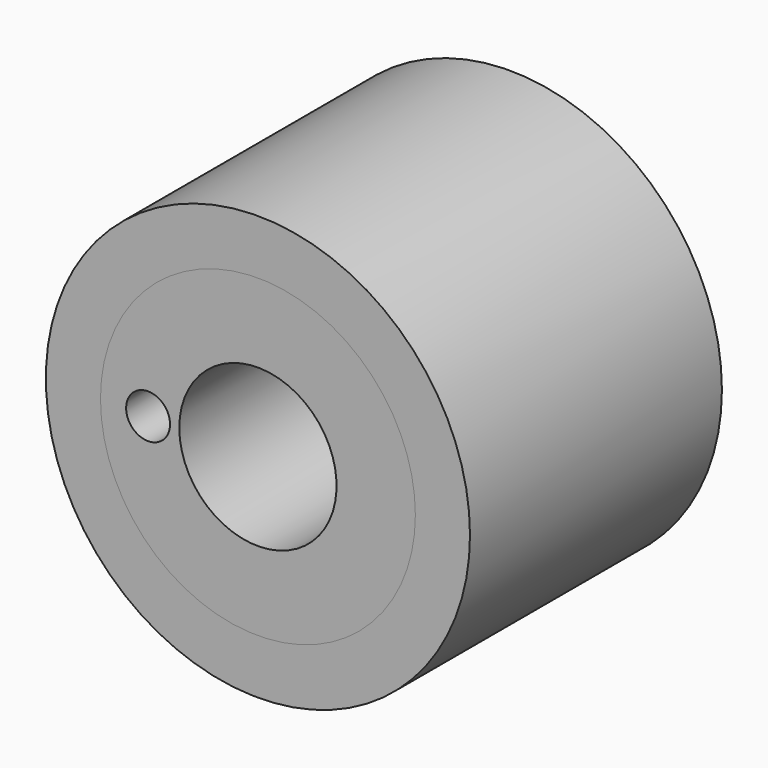
from build123d import *

# Parameters (mm, degrees)
F0_R      = 13.462
F1_DEPTH  = 19.9898
F2_R      = 9.9949
F3_DEPTH  = 25.4
F4_R      = 9.9949
F5_DEPTH  = 19.9898
F7_D      = 9.9822
F10_R     = 1.393139
F11_DEPTH = 9.9822
F12_R     = 1.441829
F13_DEPTH = 9.9822


with BuildPart() as f1:
    # F0 (on Front) → F1 (new body)
    with BuildSketch(Plane.XZ):
        Circle(F0_R)
    extrude(amount=F1_DEPTH)

    # F2 (on Front) → F3 (cut)
    with BuildSketch(Plane.XZ):
        Circle(F2_R)
    extrude(amount=F3_DEPTH, mode=Mode.SUBTRACT)


with BuildPart() as f5:
    # F4 (on Front) → F5 (new body)
    with BuildSketch(Plane.XZ):
        Circle(F4_R)
    extrude(amount=F5_DEPTH)

    # F7 (through all)
    with Locations(Plane.XZ.offset(19.9898)):
        with Locations((0, 0)):
            Hole(F7_D / 2)

    # F10 (on face) → F11 (cut)
    with BuildSketch(Plane.XZ.offset(19.9898)):
        with Locations((-6.973272, 0)):
            Circle(F10_R)
    extrude(amount=-F11_DEPTH, mode=Mode.SUBTRACT)

    # F12 (on face) → F13 (cut)
    with BuildSketch(Plane.XZ):
        with Locations((6.999859, 0)):
            Circle(F12_R)
    extrude(amount=F13_DEPTH, mode=Mode.SUBTRACT)


solid = Compound([f1.part, f5.part])
